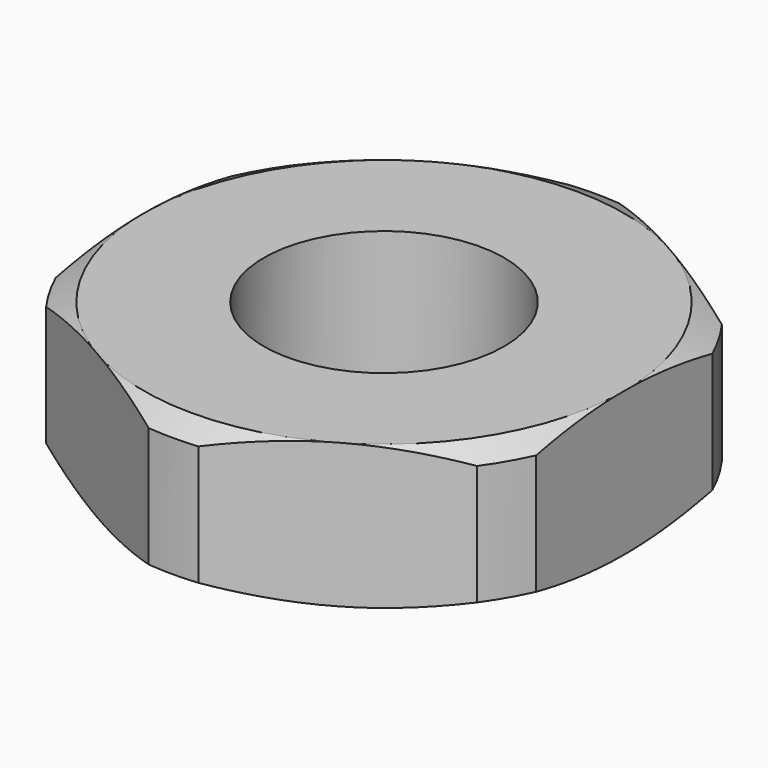
from build123d import *

# Parameters (mm, degrees)
SKETCH_R  = 1
PAD_DEPTH = 0.6


with BuildPart() as body001:
    # Sketch001 → Revolution (revolve)
    with BuildSketch(Plane.YZ):
        Polygon((2.2, 0.5), (1.7, 0.75), (2.5, 0.75), (2.5, -0.75), (1.7, -0.75), (2.2, -0.5), align=None)
    revolve(axis=Axis((0, 0, 0), (0, 0, 1)))


with BuildPart() as cut:
    # Sketch → Pad (new body, symmetric)
    with BuildSketch(Plane.XY):
        Polygon((2, 1.154701), (0, 2.309401), (-2, 1.154701), (-2, -1.154701), (0, -2.309401), (2, -1.154701), align=None)
        Circle(SKETCH_R, mode=Mode.SUBTRACT)
    extrude(amount=PAD_DEPTH, both=True)

    # Cut: cut Body001
    add(body001.part, mode=Mode.SUBTRACT)


solid = cut.part
